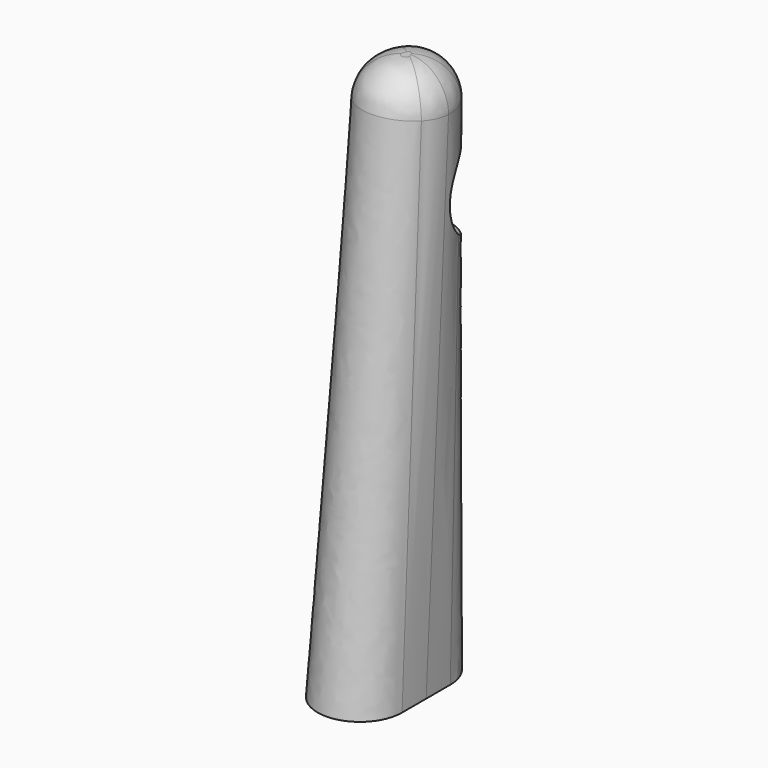
from build123d import *

# Parameters (mm, degrees)
SKETCH001_R          = 14
SKETCH002_R          = 14
POCKET_DEPTH         = 14.001
POCKET_DEPTH_BACK    = -14.001
SKETCH003_R          = 1.75
POCKET001_DEPTH      = 15
POCKET001_DEPTH_BACK = -5
POCKET002_DEPTH      = 10
SKETCH005_R          = 5.5
POCKET003_DEPTH      = 3
FILLET_R             = 13


with BuildPart() as part:
    # Sketch → AdditiveLoft section 0
    with BuildSketch(Plane.XY):
        with BuildLine():
            ThreePointArc((14, 0), (0, 14), (-14, 0))
            Line((-14, 0), (-14, -20))
            ThreePointArc((-14, -20), (0, -34), (14, -20))
            Line((14, 0), (14, -20))
        make_face()
    # Sketch001 (on DatumPlane) → AdditiveLoft section 1
    with BuildSketch(Plane.XY.offset(180)):
        Circle(SKETCH001_R)
    loft()

    # Sketch002 (on DatumPlane) → Pocket (cut, two sides)
    with BuildSketch(Plane.YZ) as pocket_sk:
        with Locations((14, 140)):
            Circle(SKETCH002_R)
    extrude(amount=-POCKET_DEPTH, mode=Mode.SUBTRACT)
    extrude(pocket_sk.sketch, amount=-POCKET_DEPTH_BACK, mode=Mode.SUBTRACT)

    # Sketch003 (on DatumPlane) → Pocket001 (cut, two sides)
    with BuildSketch(Plane(origin=(0, 0, 0), x_dir=(-1, 0, 0), z_dir=(0, 1, 0))) as pocket001_sk:
        with Locations((0, 140)):
            Circle(SKETCH003_R)
    extrude(amount=-POCKET001_DEPTH, mode=Mode.SUBTRACT)
    extrude(pocket001_sk.sketch, amount=-POCKET001_DEPTH_BACK, mode=Mode.SUBTRACT)

    # Sketch004 (on DatumPlane) → Pocket002 (cut)
    with BuildSketch(Plane(origin=(0, 0, 3), x_dir=(1, 0, 0), z_dir=(0, 0, -1))):
        with BuildLine():
            ThreePointArc((-5.5, 0), (0, -5.5), (5.5, 0))
            Line((5.5, 0), (5.5, 10))
            ThreePointArc((5.5, 10), (0, 15.5), (-5.5, 10))
            Line((-5.5, 0), (-5.5, 10))
        make_face()
    extrude(amount=-POCKET002_DEPTH, mode=Mode.SUBTRACT)

    # Sketch005 (on Face1 of Pocket002) → Pocket003 (cut)
    with BuildSketch(Plane(origin=(0, 0, 0), x_dir=(1, 0, 0), z_dir=(0, 0, -1))):
        with Locations((0, 10)):
            Circle(SKETCH005_R)
        with BuildLine():
            ThreePointArc((-2, 0), (0, -2), (2, 0))
            Line((2, 0), (2, 10))
            ThreePointArc((2, 10), (0, 12), (-2, 10))
            Line((-2, 0), (-2, 10))
        make_face()
    extrude(amount=-POCKET003_DEPTH, mode=Mode.SUBTRACT)

    # Fillet
    fillet_edges = [part.edges().sort_by_distance(p)[0] for p in [
        (0, 14, 180),
        (-14, 0, 180),
        (0, -14, 180),
        (13.332137, -4.272484, 180),
        (13.332137, 4.272484, 180),
    ]]
    fillet(fillet_edges, radius=FILLET_R)


solid = part.part
